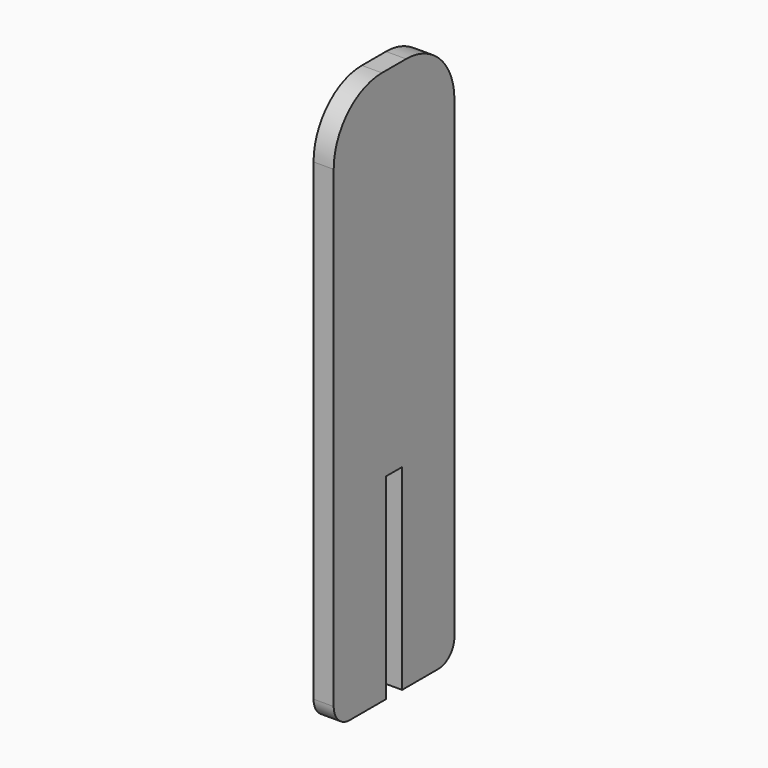
from build123d import *

# Parameters (mm, degrees)
F1_DEPTH = 3.175


with BuildPart() as f1:
    # F0 (on Right) → F1 (new body, symmetric)
    with BuildSketch(Plane.YZ):
        with BuildLine():
            Line((4.7625, 87.3125), (-4.7625, 87.3125))
            ThreePointArc((-4.7625, 87.3125), (-18.232884, 81.732884), (-23.8125, 68.2625))
            Line((-23.8125, 68.2625), (-23.8125, -80.9625))
            ThreePointArc((-23.8125, -80.9625), (-21.952628, -85.452628), (-17.4625, -87.3125))
            Line((-17.4625, -87.3125), (-3.175, -87.3125))
            Line((-3.175, -87.3125), (-3.175, -25.4))
            Line((-3.175, -25.4), (3.175, -25.4))
            Line((3.175, -25.4), (3.175, -87.3125))
            Line((3.175, -87.3125), (17.4625, -87.3125))
            ThreePointArc((17.4625, -87.3125), (21.952628, -85.452628), (23.8125, -80.9625))
            Line((23.8125, -80.9625), (23.8125, 68.2625))
            ThreePointArc((23.8125, 68.2625), (18.232884, 81.732884), (4.7625, 87.3125))
        make_face()
    extrude(amount=F1_DEPTH, both=True)


solid = f1.part
